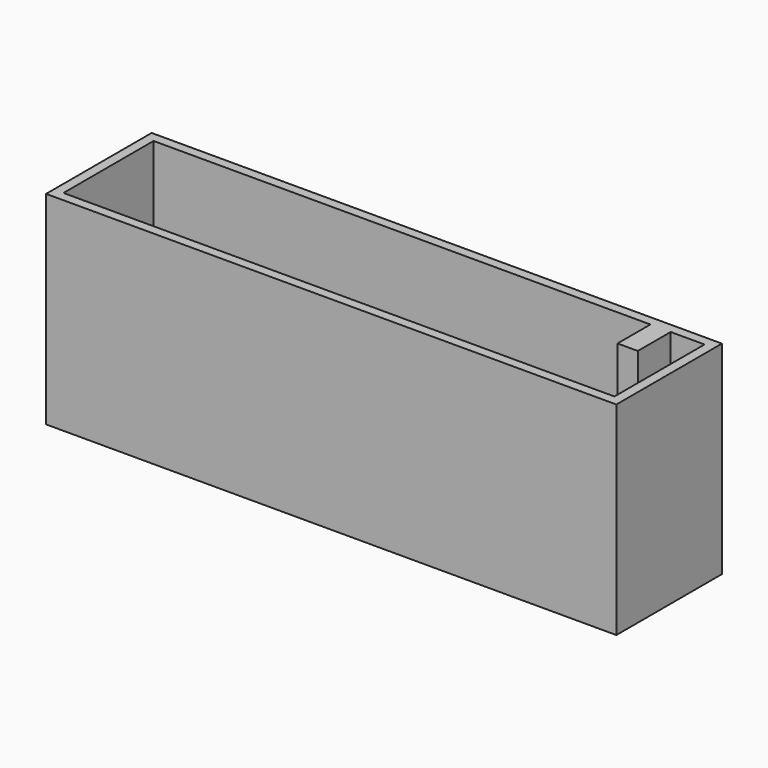
from build123d import *

# Parameters (mm, degrees)
F0_W     = 118
F0_H     = 27.3
F0_W_2   = 114
F0_H_2   = 23.3
F1_DEPTH = 40
F2_W     = 4.2
F2_H     = 8.5
F3_DEPTH = 40
F4_W     = 27
F4_H     = 7.8
F5_DEPTH = 15
F6_W     = 118
F6_H     = 27.3
F7_DEPTH = 2


with BuildPart() as f1:
    # F0 (on Top) → F1 (new body)
    with BuildSketch(Plane.XY):
        with Locations((-1.233262, 0)):
            Rectangle(F0_W, F0_H)
        with Locations((-1.233262, 0)):
            Rectangle(F0_W_2, F0_H_2, mode=Mode.SUBTRACT)
    extrude(amount=F1_DEPTH)

    # F2 (on Top) → F3 (join)
    with BuildSketch(Plane.XY):
        with Locations((46.666738, 7.4)):
            Rectangle(F2_W, F2_H)
    extrude(amount=F3_DEPTH)

    # F4 (on Top) → F5 (join)
    with BuildSketch(Plane.XY):
        with Locations((35.266738, -7.75)):
            Rectangle(F4_W, F4_H)
    extrude(amount=F5_DEPTH)

    # F6 (on Top) → F7 (join)
    with BuildSketch(Plane.XY):
        with Locations((-1.233262, 0)):
            Rectangle(F6_W, F6_H)
    extrude(amount=-F7_DEPTH)


solid = f1.part
